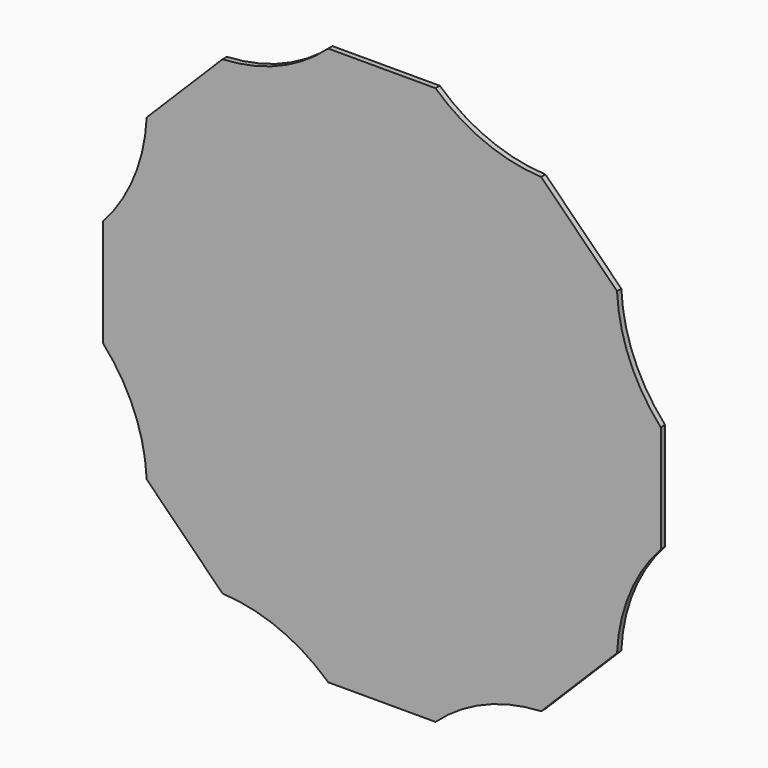
from build123d import *

# Parameters (mm, degrees)
F1_DEPTH = 1


with BuildPart() as f1:
    # F0 (on Front) → F1 (new body)
    with BuildSketch(Plane.XZ):
        with BuildLine():
            Line((10, 52), (-10, 52))
            ThreePointArc((-10, 52), (-19.134172, 46.193977), (-29.698485, 43.84062))
            Line((-29.698485, 43.84062), (-43.84062, 29.698485))
            ThreePointArc((-43.84062, 29.698485), (-46.193977, 19.134172), (-52, 10))
            Line((-52, 10), (-52, -10))
            ThreePointArc((-52, -10), (-46.193977, -19.134172), (-43.84062, -29.698485))
            Line((-43.84062, -29.698485), (-29.698485, -43.84062))
            ThreePointArc((-29.698485, -43.84062), (-19.134172, -46.193977), (-10, -52))
            Line((-10, -52), (10, -52))
            ThreePointArc((10, -52), (19.134172, -46.193977), (29.698485, -43.84062))
            Line((29.698485, -43.84062), (43.84062, -29.698485))
            ThreePointArc((43.84062, -29.698485), (46.193977, -19.134172), (52, -10))
            Line((52, -10), (52, 10))
            ThreePointArc((52, 10), (46.193977, 19.134172), (43.84062, 29.698485))
            Line((43.84062, 29.698485), (29.698485, 43.84062))
            ThreePointArc((29.698485, 43.84062), (19.134172, 46.193977), (10, 52))
        make_face()
    extrude(amount=F1_DEPTH)


solid = f1.part
